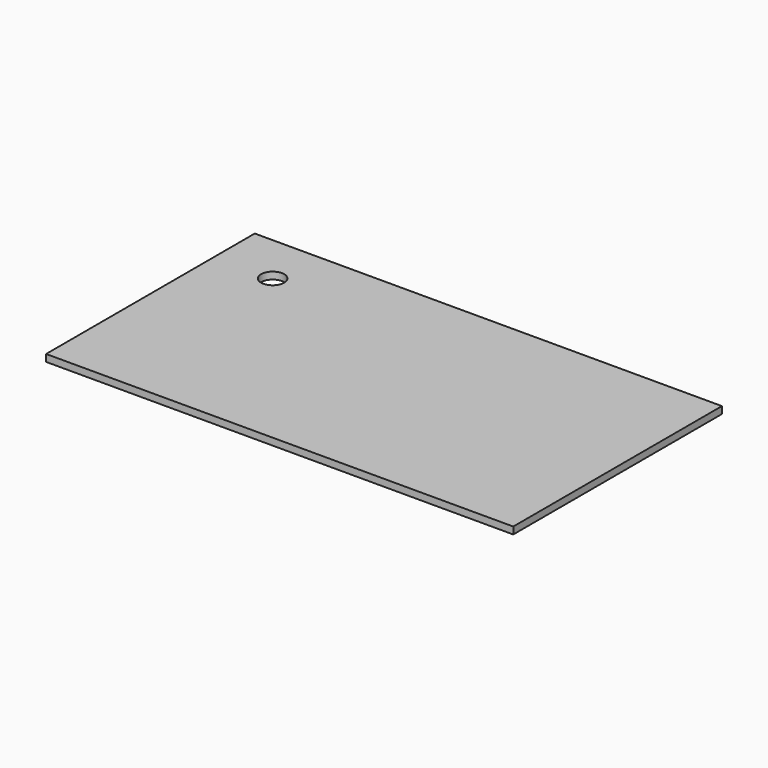
from build123d import *

# Parameters (mm, degrees)
F0_W     = 1200
F0_H     = 670
F1_DEPTH = 18
F3_D     = 59.5
F5_D     = 8.5
F5_DEPTH = 11
F5_TIP   = 2.5536576309


with BuildPart() as f1:
    # F0 (on Top) → F1 (new body)
    with BuildSketch(Plane.XY):
        Rectangle(F0_W, F0_H)
    extrude(amount=F1_DEPTH)

    # F3 (through all)
    with Locations(Plane.XY.offset(18)):
        with Locations((-450, 205)):
            Hole(F3_D / 2)

    # F5
    with Locations(Plane(origin=(0, 0, 0), x_dir=(1, 0, 0), z_dir=(0, 0, -1))):
        with Locations((-492, -253), (-583, -192), (-583, 192), (583, 192), (492, 313), (583, -192), (492, -253), (-492, 313)):
            Hole(F5_D / 2, depth=F5_DEPTH)
            with Locations((0, 0, -(F5_DEPTH + F5_TIP / 2))):  # 118° drill point
                Cone(0, F5_D / 2, F5_TIP, mode=Mode.SUBTRACT)


solid = f1.part
